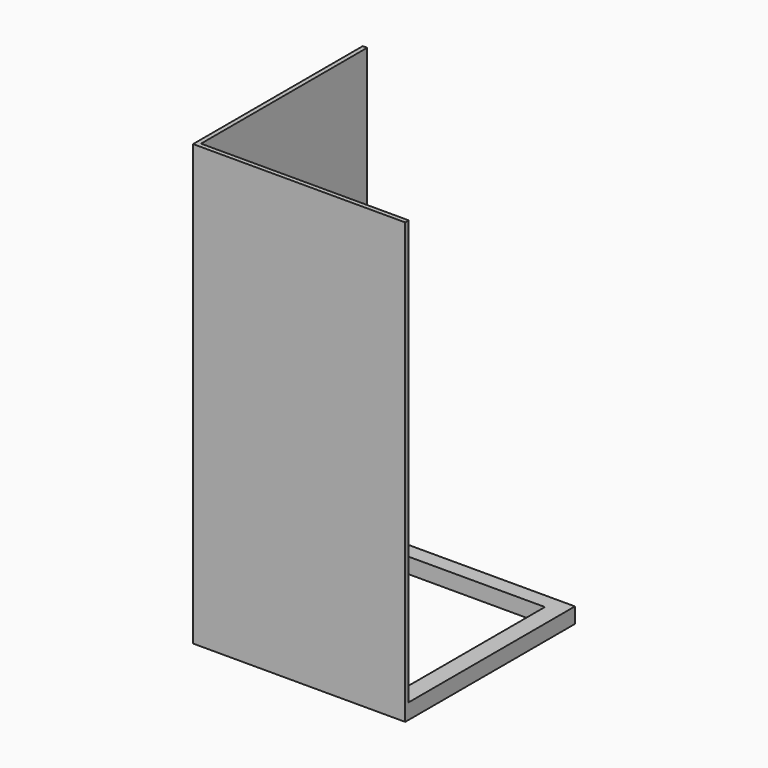
from build123d import *

# Parameters (mm, degrees)
F0_W     = 1219.2
F0_H     = 1219.2
F0_W_2   = 1018.428206
F0_H_2   = 1041.4
F1_DEPTH = 88.9
F3_DEPTH = 2438.4


with BuildPart() as f1:
    # F0 (on Top) → F1 (new body)
    with BuildSketch(Plane.XY):
        with Locations((68.045616, -44.161987)):
            Rectangle(F0_W, F0_H)
        with Locations((67.046046, -44.161987)):
            Rectangle(F0_W_2, F0_H_2, mode=Mode.SUBTRACT)
    extrude(amount=F1_DEPTH)

    # F2 (on face) → F3 (join)
    with BuildSketch(Plane.XY.offset(88.9)):
        Polygon((-541.554384, -653.761987), (677.645616, -653.761987), (677.645616, -628.361987), (-516.154384, -628.361987), (-516.154384, 565.438013), (-541.554384, 565.438013), (-541.554384, -628.361987), align=None)
    extrude(amount=F3_DEPTH)


solid = f1.part
